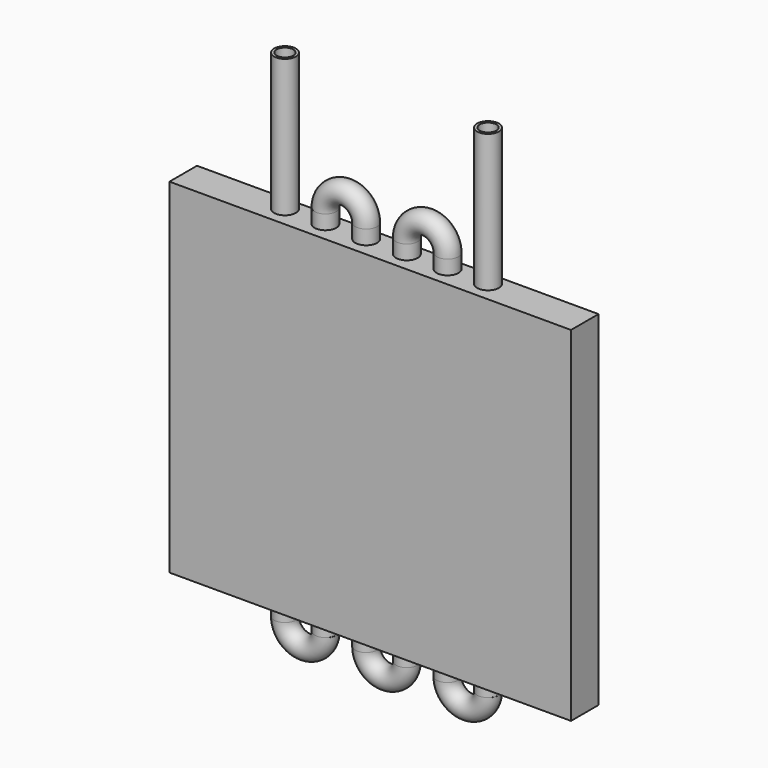
from build123d import *

# Parameters (mm, degrees)
F0_W      = 177.8
F0_H      = 152.4
F1_DEPTH  = 15.24
F2_R      = 4.826
F2_R_2    = 3.683
F3_DEPTH  = 60.96
F4_R      = 4.826
F5_DEPTH  = 6.35
F6_R      = 4.826
F8_ANGLE  = -180
F9_R      = 4.826
F10_ANGLE = 180
F7_R      = 4.826
F11_DEPTH = 6.35
F12_R     = 4.826
F13_ANGLE = 180
F14_R     = 4.826
F15_ANGLE = 180
F16_R     = 4.826
F17_ANGLE = 180


with BuildPart() as f1:
    # F0 (on Front) → F1 (new body)
    with BuildSketch(Plane.XZ):
        with Locations((-88.9, 76.2)):
            Rectangle(F0_W, F0_H)
    extrude(amount=F1_DEPTH)

    # F2 (on face) → F3 (join)
    with BuildSketch(Plane.XY.offset(152.4)):
        with Locations((-133.858, -6.24)):
            Circle(F2_R)
        with Locations((-133.858, -6.24)):
            Circle(F2_R_2, mode=Mode.SUBTRACT)
        with Locations((-43.942, -6.24)):
            Circle(F2_R)
        with Locations((-43.942, -6.24)):
            Circle(F2_R_2, mode=Mode.SUBTRACT)
    extrude(amount=F3_DEPTH)

    # F4 (on face) → F5 (join)
    with BuildSketch(Plane.XY.offset(152.4)):
        with Locations((-97.917, -6.24)):
            Circle(F4_R)
        with Locations((-79.883, -6.24)):
            Circle(F4_R)
        with Locations((-115.951, -6.24)):
            Circle(F4_R)
        with Locations((-61.849, -6.24)):
            Circle(F4_R)
    extrude(amount=F5_DEPTH)

    # F6 (on face) → F8 (revolve)
    with BuildSketch(Plane.XY.offset(158.75)):
        with Locations((-79.883, -6.24)):
            Circle(F6_R)
    revolve(axis=Axis((-70.866, -11.775763, 158.75), (0, -1, 0)), revolution_arc=F8_ANGLE)

    # F9 (on face) → F10 (revolve)
    with BuildSketch(Plane.XY.offset(158.75)):
        with Locations((-97.917, -6.24)):
            Circle(F9_R)
    revolve(axis=Axis((-106.914663, -11.993604, 158.75), (0, -1, 0)), revolution_arc=F10_ANGLE)

    # F7 (on face) → F11 (join)
    with BuildSketch(Plane(origin=(0, 0, 0), x_dir=(1, 0, 0), z_dir=(0, 0, -1))):
        with Locations((-115.858, 6.24)):
            Circle(F7_R)
        with Locations((-61.942, 6.24)):
            Circle(F7_R)
        with Locations((-133.858, 6.24)):
            Circle(F7_R)
        with Locations((-43.942, 6.24)):
            Circle(F7_R)
        with Locations((-97.917, 6.24)):
            Circle(F7_R)
        with Locations((-79.883, 6.24)):
            Circle(F7_R)
    extrude(amount=F11_DEPTH)

    # F12 (on face) → F13 (revolve)
    with BuildSketch(Plane(origin=(0, 0, -6.35), x_dir=(1, 0, 0), z_dir=(0, 0, -1))):
        with Locations((-133.858, 6.24)):
            Circle(F12_R)
    revolve(axis=Axis((-124.841, -11.775763, -6.35), (0, -1, 0)), revolution_arc=F13_ANGLE)

    # F14 (on face) → F15 (revolve)
    with BuildSketch(Plane(origin=(0, 0, -6.35), x_dir=(1, 0, 0), z_dir=(0, 0, -1))):
        with Locations((-97.917, 6.24)):
            Circle(F14_R)
    revolve(axis=Axis((-88.9, -11.557921, -6.35), (0, -1, 0)), revolution_arc=F15_ANGLE)

    # F16 (on face) → F17 (revolve)
    with BuildSketch(Plane(origin=(0, 0, -6.35), x_dir=(1, 0, 0), z_dir=(0, 0, -1))):
        with Locations((-61.942, 6.24)):
            Circle(F16_R)
    revolve(axis=Axis((-52.925, -11.39454, -6.35), (0, -1, 0)), revolution_arc=F17_ANGLE)


solid = f1.part
